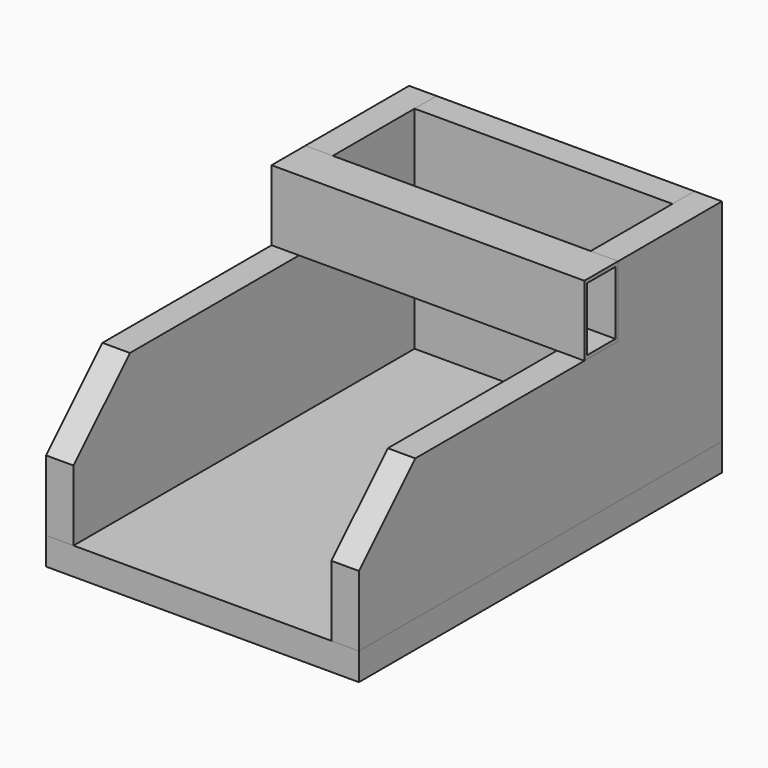
from build123d import *

# Parameters (mm, degrees)
F0_W      = 444
F0_H      = 644
F1_DEPTH  = 39
F2_W      = 39
F2_H      = 200
F3_DEPTH  = 644
F4_W      = 184
F4_H      = 100
F5_DEPTH  = 39
F7_W      = 39
F7_H      = 300
F8_DEPTH  = 366
F9_SIZE   = 100
F9_2_SIZE = 100
F10_W     = 60
F10_H     = 100
F10_W_2   = 50
F10_H_2   = 90
F11_DEPTH = 444


with BuildPart() as f1:
    # F0 (on Top) → F1 (new body)
    with BuildSketch(Plane.XY):
        Rectangle(F0_W, F0_H)
    extrude(amount=F1_DEPTH)


with BuildPart() as f3:
    # F2 (on face) → F3 (new body, through all)
    with BuildSketch(Plane.XZ.offset(322)):
        with Locations((-202.5, 139)):
            Rectangle(F2_W, F2_H)
    extrude(amount=-F3_DEPTH)

    # F4 (on face) → F5 (join)
    with BuildSketch(Plane(origin=(-222, 0, 0), x_dir=(0, -1, 0), z_dir=(-1, 0, 0))):
        with Locations((-230, 289)):
            Rectangle(F4_W, F4_H)
    extrude(amount=-F5_DEPTH)


with BuildPart() as f6_1:
    # F6: instance of F3
    add(f3.part.mirror(Plane.YZ))

    # F9#2
    f9_2_edges = [f6_1.edges().sort_by_distance(p)[0] for p in [
        (202.5, -322, 239),
    ]]
    chamfer(f9_2_edges, length=F9_2_SIZE)


with BuildPart() as f8:
    # F7 (on face) → F8 (new body, through all)
    with BuildSketch(Plane(origin=(183, 0, 0), x_dir=(0, -1, 0), z_dir=(-1, 0, 0))):
        with Locations((-302.5, 189)):
            Rectangle(F7_W, F7_H)
    extrude(amount=F8_DEPTH)


with BuildPart() as f3_1:
    add(f3.part)

    # F9
    f9_edges = [f3_1.edges().sort_by_distance(p)[0] for p in [
        (-202.5, -322, 239),
    ]]
    chamfer(f9_edges, length=F9_SIZE)


with BuildPart() as f11:
    # F10 (on face) → F11 (new body, through all)
    with BuildSketch(Plane(origin=(-222, 0, 0), x_dir=(0, -1, 0), z_dir=(-1, 0, 0))):
        with Locations((-108, 289)):
            Rectangle(F10_W, F10_H)
        with Locations((-108, 289)):
            Rectangle(F10_W_2, F10_H_2, mode=Mode.SUBTRACT)
    extrude(amount=-F11_DEPTH)


solid = Compound([f1.part, f6_1.part, f8.part, f3_1.part, f11.part])
